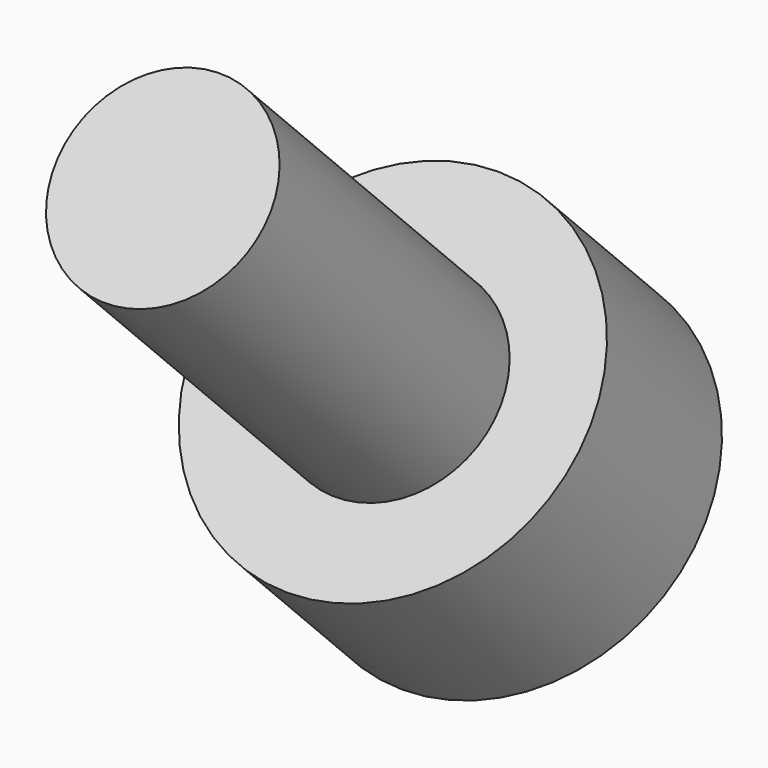
from build123d import *

# Parameters (mm, degrees)
SKETCH036_R             = 2.75
PAD021_DEPTH            = 3
SKETCH037_R             = 1.5
PAD022_DEPTH            = 6
POCKET017_DEPTH         = 4
BODY010_PLACEMENT_ANGLE = 225


with BuildPart() as part:
    # Sketch036 → Pad021 (new body)
    with BuildSketch(Plane.XY):
        Circle(SKETCH036_R)
    extrude(amount=PAD021_DEPTH)

    # Sketch037 (on Face2 of Pad021) → Pad022 (join)
    with BuildSketch(Plane(origin=(0, 0, 0), x_dir=(1, 0, 0), z_dir=(0, 0, -1))):
        Circle(SKETCH037_R)
    extrude(amount=PAD022_DEPTH)

    # Sketch038 (on DatumPlane) → Pocket017 (cut)
    with BuildSketch(Plane.XY.offset(3)):
        Polygon((0.721688, -1.25), (1.443376, 0), (0.721688, 1.25), (-0.721688, 1.25), (-1.443376, 0), (-0.721688, -1.25), align=None)
    extrude(amount=-POCKET017_DEPTH, mode=Mode.SUBTRACT)


with BuildPart() as part_1:
    # Body010 placement: moved
    add(part.part.moved(Location((-118.5, -61.871843, 6.010408))).rotate(Axis((-118.5, -61.871843, 6.010408), (1, 0, 0)), BODY010_PLACEMENT_ANGLE))


solid = part_1.part
